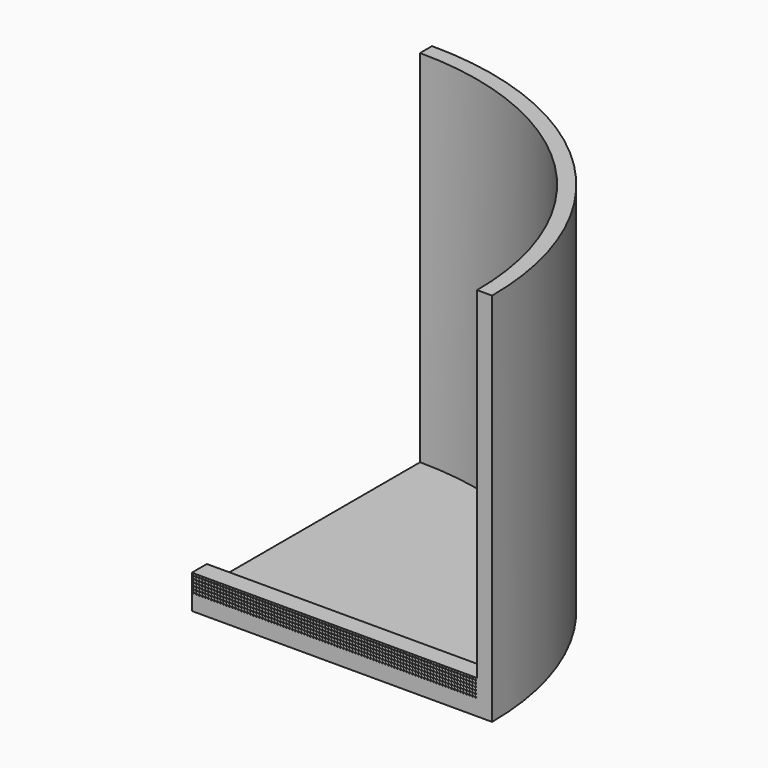
from build123d import *

# Parameters (mm, degrees)
F1_ANGLE = 90
F2_R     = 0.127
F3_DEPTH = 3.175


with BuildPart() as f1:
    # F0 (on Front) → F1 (revolve)
    with BuildSketch(Plane.XZ):
        Polygon((0, -20.305452), (0, -22.845452), (50.8, -22.845452), (50.8, 40.654548), (48.26, 40.654548), (48.26, -20.305452), align=None)
    revolve(axis=Axis((0, 0, -21.575452), (0, 0, 1)), revolution_arc=F1_ANGLE)

    # F2 (on face) → F3 (join)
    with BuildSketch(Plane.XZ):
        Polygon((0, -20.051452), (0, -20.305452), (48.26, -20.305452), (48.26, -17.130452), (0, -17.130452), align=None)
        with BuildLine():
            ThreePointArc((0.381, -20.051452), (0.254, -20.178452), (0.127, -20.051452))
            ThreePointArc((0.127, -20.051452), (0.254, -19.924452), (0.381, -20.051452))
        make_face(mode=Mode.SUBTRACT)
        with Locations((0.762, -20.051452)):
            Circle(F2_R, mode=Mode.SUBTRACT)
        with Locations((1.27, -20.051452)):
            Circle(F2_R, mode=Mode.SUBTRACT)
        with Locations((0.248868, -19.543478)):
            Circle(F2_R, mode=Mode.SUBTRACT)
        with Locations((0.756868, -19.543478)):
            Circle(F2_R, mode=Mode.SUBTRACT)
        with Locations((0.243735, -19.035504)):
            Circle(F2_R, mode=Mode.SUBTRACT)
        with Locations((0.751735, -19.035504)):
            Circle(F2_R, mode=Mode.SUBTRACT)
        with Locations((1.264868, -19.543478)):
            Circle(F2_R, mode=Mode.SUBTRACT)
        with Locations((1.259735, -19.035504)):
            Circle(F2_R, mode=Mode.SUBTRACT)
        with Locations((1.778, -20.051452)):
            Circle(F2_R, mode=Mode.SUBTRACT)
        with Locations((2.286, -20.051452)):
            Circle(F2_R, mode=Mode.SUBTRACT)
        with Locations((2.794, -20.051452)):
            Circle(F2_R, mode=Mode.SUBTRACT)
        with Locations((1.772868, -19.543478)):
            Circle(F2_R, mode=Mode.SUBTRACT)
        with Locations((2.280868, -19.543478)):
            Circle(F2_R, mode=Mode.SUBTRACT)
        with Locations((1.767735, -19.035504)):
            Circle(F2_R, mode=Mode.SUBTRACT)
        with Locations((2.275735, -19.035504)):
            Circle(F2_R, mode=Mode.SUBTRACT)
        with Locations((2.788868, -19.543478)):
            Circle(F2_R, mode=Mode.SUBTRACT)
        with Locations((2.783735, -19.035504)):
            Circle(F2_R, mode=Mode.SUBTRACT)
        with Locations((3.302, -20.051452)):
            Circle(F2_R, mode=Mode.SUBTRACT)
        with Locations((3.81, -20.051452)):
            Circle(F2_R, mode=Mode.SUBTRACT)
        with Locations((4.318, -20.051452)):
            Circle(F2_R, mode=Mode.SUBTRACT)
        with Locations((3.296868, -19.543478)):
            Circle(F2_R, mode=Mode.SUBTRACT)
        with Locations((3.804868, -19.543478)):
            Circle(F2_R, mode=Mode.SUBTRACT)
        with Locations((3.291735, -19.035504)):
            Circle(F2_R, mode=Mode.SUBTRACT)
        with Locations((3.799735, -19.035504)):
            Circle(F2_R, mode=Mode.SUBTRACT)
        with Locations((4.312868, -19.543478)):
            Circle(F2_R, mode=Mode.SUBTRACT)
        with Locations((4.307735, -19.035504)):
            Circle(F2_R, mode=Mode.SUBTRACT)
        with Locations((4.826, -20.051452)):
            Circle(F2_R, mode=Mode.SUBTRACT)
        with Locations((5.334, -20.051452)):
            Circle(F2_R, mode=Mode.SUBTRACT)
        with Locations((5.842, -20.051452)):
            Circle(F2_R, mode=Mode.SUBTRACT)
        with Locations((4.820868, -19.543478)):
            Circle(F2_R, mode=Mode.SUBTRACT)
        with Locations((5.328868, -19.543478)):
            Circle(F2_R, mode=Mode.SUBTRACT)
        with Locations((4.815735, -19.035504)):
            Circle(F2_R, mode=Mode.SUBTRACT)
        with Locations((5.323735, -19.035504)):
            Circle(F2_R, mode=Mode.SUBTRACT)
        with Locations((5.836868, -19.543478)):
            Circle(F2_R, mode=Mode.SUBTRACT)
        with Locations((6.344868, -19.543478)):
            Circle(F2_R, mode=Mode.SUBTRACT)
        with Locations((5.831735, -19.035504)):
            Circle(F2_R, mode=Mode.SUBTRACT)
        with Locations((6.339735, -19.035504)):
            Circle(F2_R, mode=Mode.SUBTRACT)
        with Locations((0.238603, -18.52753)):
            Circle(F2_R, mode=Mode.SUBTRACT)
        with Locations((0.746603, -18.52753)):
            Circle(F2_R, mode=Mode.SUBTRACT)
        with Locations((0.23347, -18.019556)):
            Circle(F2_R, mode=Mode.SUBTRACT)
        with Locations((0.74147, -18.019556)):
            Circle(F2_R, mode=Mode.SUBTRACT)
        with Locations((1.254603, -18.52753)):
            Circle(F2_R, mode=Mode.SUBTRACT)
        with Locations((1.24947, -18.019556)):
            Circle(F2_R, mode=Mode.SUBTRACT)
        with Locations((0.228338, -17.511581)):
            Circle(F2_R, mode=Mode.SUBTRACT)
        with Locations((0.736338, -17.511581)):
            Circle(F2_R, mode=Mode.SUBTRACT)
        with Locations((1.244338, -17.511581)):
            Circle(F2_R, mode=Mode.SUBTRACT)
        with Locations((1.762603, -18.52753)):
            Circle(F2_R, mode=Mode.SUBTRACT)
        with Locations((2.270603, -18.52753)):
            Circle(F2_R, mode=Mode.SUBTRACT)
        with Locations((1.75747, -18.019556)):
            Circle(F2_R, mode=Mode.SUBTRACT)
        with Locations((2.26547, -18.019556)):
            Circle(F2_R, mode=Mode.SUBTRACT)
        with Locations((2.778603, -18.52753)):
            Circle(F2_R, mode=Mode.SUBTRACT)
        with Locations((2.77347, -18.019556)):
            Circle(F2_R, mode=Mode.SUBTRACT)
        with Locations((1.752338, -17.511581)):
            Circle(F2_R, mode=Mode.SUBTRACT)
        with Locations((2.260338, -17.511581)):
            Circle(F2_R, mode=Mode.SUBTRACT)
        with Locations((2.768338, -17.511581)):
            Circle(F2_R, mode=Mode.SUBTRACT)
        with Locations((3.286603, -18.52753)):
            Circle(F2_R, mode=Mode.SUBTRACT)
        with Locations((3.794603, -18.52753)):
            Circle(F2_R, mode=Mode.SUBTRACT)
        with Locations((3.28147, -18.019556)):
            Circle(F2_R, mode=Mode.SUBTRACT)
        with Locations((3.78947, -18.019556)):
            Circle(F2_R, mode=Mode.SUBTRACT)
        with Locations((4.302603, -18.52753)):
            Circle(F2_R, mode=Mode.SUBTRACT)
        with Locations((4.29747, -18.019556)):
            Circle(F2_R, mode=Mode.SUBTRACT)
        with Locations((3.276338, -17.511581)):
            Circle(F2_R, mode=Mode.SUBTRACT)
        with Locations((3.784338, -17.511581)):
            Circle(F2_R, mode=Mode.SUBTRACT)
        with Locations((4.292338, -17.511581)):
            Circle(F2_R, mode=Mode.SUBTRACT)
        with Locations((4.810603, -18.52753)):
            Circle(F2_R, mode=Mode.SUBTRACT)
        with Locations((5.318603, -18.52753)):
            Circle(F2_R, mode=Mode.SUBTRACT)
        with Locations((4.80547, -18.019556)):
            Circle(F2_R, mode=Mode.SUBTRACT)
        with Locations((5.31347, -18.019556)):
            Circle(F2_R, mode=Mode.SUBTRACT)
        with Locations((5.826603, -18.52753)):
            Circle(F2_R, mode=Mode.SUBTRACT)
        with Locations((6.334603, -18.52753)):
            Circle(F2_R, mode=Mode.SUBTRACT)
        with Locations((5.82147, -18.019556)):
            Circle(F2_R, mode=Mode.SUBTRACT)
        with Locations((6.32947, -18.019556)):
            Circle(F2_R, mode=Mode.SUBTRACT)
        with Locations((4.800338, -17.511581)):
            Circle(F2_R, mode=Mode.SUBTRACT)
        with Locations((5.308338, -17.511581)):
            Circle(F2_R, mode=Mode.SUBTRACT)
        with Locations((5.816338, -17.511581)):
            Circle(F2_R, mode=Mode.SUBTRACT)
        with Locations((6.324338, -17.511581)):
            Circle(F2_R, mode=Mode.SUBTRACT)
        with Locations((6.35, -20.051452)):
            Circle(F2_R, mode=Mode.SUBTRACT)
        with Locations((6.858, -20.051452)):
            Circle(F2_R, mode=Mode.SUBTRACT)
        with Locations((7.366, -20.051452)):
            Circle(F2_R, mode=Mode.SUBTRACT)
        with Locations((7.874, -20.051452)):
            Circle(F2_R, mode=Mode.SUBTRACT)
        with Locations((6.852868, -19.543478)):
            Circle(F2_R, mode=Mode.SUBTRACT)
        with Locations((6.847735, -19.035504)):
            Circle(F2_R, mode=Mode.SUBTRACT)
        with Locations((7.360868, -19.543478)):
            Circle(F2_R, mode=Mode.SUBTRACT)
        with Locations((7.868868, -19.543478)):
            Circle(F2_R, mode=Mode.SUBTRACT)
        with Locations((7.355735, -19.035504)):
            Circle(F2_R, mode=Mode.SUBTRACT)
        with Locations((7.863735, -19.035504)):
            Circle(F2_R, mode=Mode.SUBTRACT)
        with Locations((8.382, -20.051452)):
            Circle(F2_R, mode=Mode.SUBTRACT)
        with Locations((8.89, -20.051452)):
            Circle(F2_R, mode=Mode.SUBTRACT)
        with Locations((9.398, -20.051452)):
            Circle(F2_R, mode=Mode.SUBTRACT)
        with Locations((8.376868, -19.543478)):
            Circle(F2_R, mode=Mode.SUBTRACT)
        with Locations((8.371735, -19.035504)):
            Circle(F2_R, mode=Mode.SUBTRACT)
        with Locations((8.884868, -19.543478)):
            Circle(F2_R, mode=Mode.SUBTRACT)
        with Locations((9.392868, -19.543478)):
            Circle(F2_R, mode=Mode.SUBTRACT)
        with Locations((8.879735, -19.035504)):
            Circle(F2_R, mode=Mode.SUBTRACT)
        with Locations((9.387735, -19.035504)):
            Circle(F2_R, mode=Mode.SUBTRACT)
        with Locations((9.906, -20.051452)):
            Circle(F2_R, mode=Mode.SUBTRACT)
        with Locations((10.414, -20.051452)):
            Circle(F2_R, mode=Mode.SUBTRACT)
        with Locations((10.922, -20.051452)):
            Circle(F2_R, mode=Mode.SUBTRACT)
        with Locations((9.900868, -19.543478)):
            Circle(F2_R, mode=Mode.SUBTRACT)
        with Locations((9.895735, -19.035504)):
            Circle(F2_R, mode=Mode.SUBTRACT)
        with Locations((10.408868, -19.543478)):
            Circle(F2_R, mode=Mode.SUBTRACT)
        with Locations((10.916868, -19.543478)):
            Circle(F2_R, mode=Mode.SUBTRACT)
        with Locations((10.403735, -19.035504)):
            Circle(F2_R, mode=Mode.SUBTRACT)
        with Locations((10.911735, -19.035504)):
            Circle(F2_R, mode=Mode.SUBTRACT)
        with Locations((11.43, -20.051452)):
            Circle(F2_R, mode=Mode.SUBTRACT)
        with Locations((11.938, -20.051452)):
            Circle(F2_R, mode=Mode.SUBTRACT)
        with Locations((12.446, -20.051452)):
            Circle(F2_R, mode=Mode.SUBTRACT)
        with Locations((11.424868, -19.543478)):
            Circle(F2_R, mode=Mode.SUBTRACT)
        with Locations((11.419735, -19.035504)):
            Circle(F2_R, mode=Mode.SUBTRACT)
        with Locations((11.932868, -19.543478)):
            Circle(F2_R, mode=Mode.SUBTRACT)
        with Locations((12.440868, -19.543478)):
            Circle(F2_R, mode=Mode.SUBTRACT)
        with Locations((11.927735, -19.035504)):
            Circle(F2_R, mode=Mode.SUBTRACT)
        with Locations((12.435735, -19.035504)):
            Circle(F2_R, mode=Mode.SUBTRACT)
        with Locations((6.842603, -18.52753)):
            Circle(F2_R, mode=Mode.SUBTRACT)
        with Locations((6.83747, -18.019556)):
            Circle(F2_R, mode=Mode.SUBTRACT)
        with Locations((7.350603, -18.52753)):
            Circle(F2_R, mode=Mode.SUBTRACT)
        with Locations((7.858603, -18.52753)):
            Circle(F2_R, mode=Mode.SUBTRACT)
        with Locations((7.34547, -18.019556)):
            Circle(F2_R, mode=Mode.SUBTRACT)
        with Locations((7.85347, -18.019556)):
            Circle(F2_R, mode=Mode.SUBTRACT)
        with Locations((6.832338, -17.511581)):
            Circle(F2_R, mode=Mode.SUBTRACT)
        with Locations((7.340338, -17.511581)):
            Circle(F2_R, mode=Mode.SUBTRACT)
        with Locations((7.848338, -17.511581)):
            Circle(F2_R, mode=Mode.SUBTRACT)
        with Locations((8.366603, -18.52753)):
            Circle(F2_R, mode=Mode.SUBTRACT)
        with Locations((8.36147, -18.019556)):
            Circle(F2_R, mode=Mode.SUBTRACT)
        with Locations((8.874603, -18.52753)):
            Circle(F2_R, mode=Mode.SUBTRACT)
        with Locations((9.382603, -18.52753)):
            Circle(F2_R, mode=Mode.SUBTRACT)
        with Locations((8.86947, -18.019556)):
            Circle(F2_R, mode=Mode.SUBTRACT)
        with Locations((9.37747, -18.019556)):
            Circle(F2_R, mode=Mode.SUBTRACT)
        with Locations((8.356338, -17.511581)):
            Circle(F2_R, mode=Mode.SUBTRACT)
        with Locations((8.864338, -17.511581)):
            Circle(F2_R, mode=Mode.SUBTRACT)
        with Locations((9.372338, -17.511581)):
            Circle(F2_R, mode=Mode.SUBTRACT)
        with Locations((9.890603, -18.52753)):
            Circle(F2_R, mode=Mode.SUBTRACT)
        with Locations((9.88547, -18.019556)):
            Circle(F2_R, mode=Mode.SUBTRACT)
        with Locations((10.398603, -18.52753)):
            Circle(F2_R, mode=Mode.SUBTRACT)
        with Locations((10.906603, -18.52753)):
            Circle(F2_R, mode=Mode.SUBTRACT)
        with Locations((10.39347, -18.019556)):
            Circle(F2_R, mode=Mode.SUBTRACT)
        with Locations((10.90147, -18.019556)):
            Circle(F2_R, mode=Mode.SUBTRACT)
        with Locations((9.880338, -17.511581)):
            Circle(F2_R, mode=Mode.SUBTRACT)
        with Locations((10.388338, -17.511581)):
            Circle(F2_R, mode=Mode.SUBTRACT)
        with Locations((10.896338, -17.511581)):
            Circle(F2_R, mode=Mode.SUBTRACT)
        with Locations((11.414603, -18.52753)):
            Circle(F2_R, mode=Mode.SUBTRACT)
        with Locations((11.40947, -18.019556)):
            Circle(F2_R, mode=Mode.SUBTRACT)
        with Locations((11.922603, -18.52753)):
            Circle(F2_R, mode=Mode.SUBTRACT)
        with Locations((12.430603, -18.52753)):
            Circle(F2_R, mode=Mode.SUBTRACT)
        with Locations((11.91747, -18.019556)):
            Circle(F2_R, mode=Mode.SUBTRACT)
        with Locations((12.42547, -18.019556)):
            Circle(F2_R, mode=Mode.SUBTRACT)
        with Locations((11.404338, -17.511581)):
            Circle(F2_R, mode=Mode.SUBTRACT)
        with Locations((11.912338, -17.511581)):
            Circle(F2_R, mode=Mode.SUBTRACT)
        with Locations((12.420338, -17.511581)):
            Circle(F2_R, mode=Mode.SUBTRACT)
        with Locations((12.954, -20.051452)):
            Circle(F2_R, mode=Mode.SUBTRACT)
        with Locations((13.462, -20.051452)):
            Circle(F2_R, mode=Mode.SUBTRACT)
        with Locations((13.97, -20.051452)):
            Circle(F2_R, mode=Mode.SUBTRACT)
        with Locations((12.948868, -19.543478)):
            Circle(F2_R, mode=Mode.SUBTRACT)
        with Locations((13.456868, -19.543478)):
            Circle(F2_R, mode=Mode.SUBTRACT)
        with Locations((12.943735, -19.035504)):
            Circle(F2_R, mode=Mode.SUBTRACT)
        with Locations((13.451735, -19.035504)):
            Circle(F2_R, mode=Mode.SUBTRACT)
        with Locations((13.964868, -19.543478)):
            Circle(F2_R, mode=Mode.SUBTRACT)
        with Locations((13.959735, -19.035504)):
            Circle(F2_R, mode=Mode.SUBTRACT)
        with Locations((14.478, -20.051452)):
            Circle(F2_R, mode=Mode.SUBTRACT)
        with Locations((14.986, -20.051452)):
            Circle(F2_R, mode=Mode.SUBTRACT)
        with Locations((15.494, -20.051452)):
            Circle(F2_R, mode=Mode.SUBTRACT)
        with Locations((14.472868, -19.543478)):
            Circle(F2_R, mode=Mode.SUBTRACT)
        with Locations((14.980868, -19.543478)):
            Circle(F2_R, mode=Mode.SUBTRACT)
        with Locations((14.467735, -19.035504)):
            Circle(F2_R, mode=Mode.SUBTRACT)
        with Locations((14.975735, -19.035504)):
            Circle(F2_R, mode=Mode.SUBTRACT)
        with Locations((15.488868, -19.543478)):
            Circle(F2_R, mode=Mode.SUBTRACT)
        with Locations((15.483735, -19.035504)):
            Circle(F2_R, mode=Mode.SUBTRACT)
        with Locations((16.002, -20.051452)):
            Circle(F2_R, mode=Mode.SUBTRACT)
        with Locations((16.51, -20.051452)):
            Circle(F2_R, mode=Mode.SUBTRACT)
        with Locations((17.018, -20.051452)):
            Circle(F2_R, mode=Mode.SUBTRACT)
        with Locations((15.996868, -19.543478)):
            Circle(F2_R, mode=Mode.SUBTRACT)
        with Locations((16.504868, -19.543478)):
            Circle(F2_R, mode=Mode.SUBTRACT)
        with Locations((15.991735, -19.035504)):
            Circle(F2_R, mode=Mode.SUBTRACT)
        with Locations((16.499735, -19.035504)):
            Circle(F2_R, mode=Mode.SUBTRACT)
        with Locations((17.012868, -19.543478)):
            Circle(F2_R, mode=Mode.SUBTRACT)
        with Locations((17.007735, -19.035504)):
            Circle(F2_R, mode=Mode.SUBTRACT)
        with Locations((17.526, -20.051452)):
            Circle(F2_R, mode=Mode.SUBTRACT)
        with Locations((18.034, -20.051452)):
            Circle(F2_R, mode=Mode.SUBTRACT)
        with Locations((18.542, -20.051452)):
            Circle(F2_R, mode=Mode.SUBTRACT)
        with Locations((17.520868, -19.543478)):
            Circle(F2_R, mode=Mode.SUBTRACT)
        with Locations((18.028868, -19.543478)):
            Circle(F2_R, mode=Mode.SUBTRACT)
        with Locations((17.515735, -19.035504)):
            Circle(F2_R, mode=Mode.SUBTRACT)
        with Locations((18.023735, -19.035504)):
            Circle(F2_R, mode=Mode.SUBTRACT)
        with Locations((18.536868, -19.543478)):
            Circle(F2_R, mode=Mode.SUBTRACT)
        with Locations((19.044868, -19.543478)):
            Circle(F2_R, mode=Mode.SUBTRACT)
        with Locations((18.531735, -19.035504)):
            Circle(F2_R, mode=Mode.SUBTRACT)
        with Locations((19.039735, -19.035504)):
            Circle(F2_R, mode=Mode.SUBTRACT)
        with Locations((12.938603, -18.52753)):
            Circle(F2_R, mode=Mode.SUBTRACT)
        with Locations((13.446603, -18.52753)):
            Circle(F2_R, mode=Mode.SUBTRACT)
        with Locations((12.93347, -18.019556)):
            Circle(F2_R, mode=Mode.SUBTRACT)
        with Locations((13.44147, -18.019556)):
            Circle(F2_R, mode=Mode.SUBTRACT)
        with Locations((13.954603, -18.52753)):
            Circle(F2_R, mode=Mode.SUBTRACT)
        with Locations((13.94947, -18.019556)):
            Circle(F2_R, mode=Mode.SUBTRACT)
        with Locations((12.928338, -17.511581)):
            Circle(F2_R, mode=Mode.SUBTRACT)
        with Locations((13.436338, -17.511581)):
            Circle(F2_R, mode=Mode.SUBTRACT)
        with Locations((13.944338, -17.511581)):
            Circle(F2_R, mode=Mode.SUBTRACT)
        with Locations((14.462603, -18.52753)):
            Circle(F2_R, mode=Mode.SUBTRACT)
        with Locations((14.970603, -18.52753)):
            Circle(F2_R, mode=Mode.SUBTRACT)
        with Locations((14.45747, -18.019556)):
            Circle(F2_R, mode=Mode.SUBTRACT)
        with Locations((14.96547, -18.019556)):
            Circle(F2_R, mode=Mode.SUBTRACT)
        with Locations((15.478603, -18.52753)):
            Circle(F2_R, mode=Mode.SUBTRACT)
        with Locations((15.47347, -18.019556)):
            Circle(F2_R, mode=Mode.SUBTRACT)
        with Locations((14.452338, -17.511581)):
            Circle(F2_R, mode=Mode.SUBTRACT)
        with Locations((14.960338, -17.511581)):
            Circle(F2_R, mode=Mode.SUBTRACT)
        with Locations((15.468338, -17.511581)):
            Circle(F2_R, mode=Mode.SUBTRACT)
        with Locations((15.986603, -18.52753)):
            Circle(F2_R, mode=Mode.SUBTRACT)
        with Locations((16.494603, -18.52753)):
            Circle(F2_R, mode=Mode.SUBTRACT)
        with Locations((15.98147, -18.019556)):
            Circle(F2_R, mode=Mode.SUBTRACT)
        with Locations((16.48947, -18.019556)):
            Circle(F2_R, mode=Mode.SUBTRACT)
        with Locations((17.002603, -18.52753)):
            Circle(F2_R, mode=Mode.SUBTRACT)
        with Locations((16.99747, -18.019556)):
            Circle(F2_R, mode=Mode.SUBTRACT)
        with Locations((15.976338, -17.511581)):
            Circle(F2_R, mode=Mode.SUBTRACT)
        with Locations((16.484338, -17.511581)):
            Circle(F2_R, mode=Mode.SUBTRACT)
        with Locations((16.992338, -17.511581)):
            Circle(F2_R, mode=Mode.SUBTRACT)
        with Locations((17.510603, -18.52753)):
            Circle(F2_R, mode=Mode.SUBTRACT)
        with Locations((18.018603, -18.52753)):
            Circle(F2_R, mode=Mode.SUBTRACT)
        with Locations((17.50547, -18.019556)):
            Circle(F2_R, mode=Mode.SUBTRACT)
        with Locations((18.01347, -18.019556)):
            Circle(F2_R, mode=Mode.SUBTRACT)
        with Locations((18.526603, -18.52753)):
            Circle(F2_R, mode=Mode.SUBTRACT)
        with Locations((19.034603, -18.52753)):
            Circle(F2_R, mode=Mode.SUBTRACT)
        with Locations((18.52147, -18.019556)):
            Circle(F2_R, mode=Mode.SUBTRACT)
        with Locations((19.02947, -18.019556)):
            Circle(F2_R, mode=Mode.SUBTRACT)
        with Locations((17.500338, -17.511581)):
            Circle(F2_R, mode=Mode.SUBTRACT)
        with Locations((18.008338, -17.511581)):
            Circle(F2_R, mode=Mode.SUBTRACT)
        with Locations((18.516338, -17.511581)):
            Circle(F2_R, mode=Mode.SUBTRACT)
        with Locations((19.024338, -17.511581)):
            Circle(F2_R, mode=Mode.SUBTRACT)
        with Locations((19.05, -20.051452)):
            Circle(F2_R, mode=Mode.SUBTRACT)
        with Locations((19.558, -20.051452)):
            Circle(F2_R, mode=Mode.SUBTRACT)
        with Locations((20.066, -20.051452)):
            Circle(F2_R, mode=Mode.SUBTRACT)
        with Locations((20.574, -20.051452)):
            Circle(F2_R, mode=Mode.SUBTRACT)
        with Locations((19.552868, -19.543478)):
            Circle(F2_R, mode=Mode.SUBTRACT)
        with Locations((19.547735, -19.035504)):
            Circle(F2_R, mode=Mode.SUBTRACT)
        with Locations((20.060868, -19.543478)):
            Circle(F2_R, mode=Mode.SUBTRACT)
        with Locations((20.568868, -19.543478)):
            Circle(F2_R, mode=Mode.SUBTRACT)
        with Locations((20.055735, -19.035504)):
            Circle(F2_R, mode=Mode.SUBTRACT)
        with Locations((20.563735, -19.035504)):
            Circle(F2_R, mode=Mode.SUBTRACT)
        with Locations((21.082, -20.051452)):
            Circle(F2_R, mode=Mode.SUBTRACT)
        with Locations((21.59, -20.051452)):
            Circle(F2_R, mode=Mode.SUBTRACT)
        with Locations((22.098, -20.051452)):
            Circle(F2_R, mode=Mode.SUBTRACT)
        with Locations((21.076868, -19.543478)):
            Circle(F2_R, mode=Mode.SUBTRACT)
        with Locations((21.071735, -19.035504)):
            Circle(F2_R, mode=Mode.SUBTRACT)
        with Locations((21.584868, -19.543478)):
            Circle(F2_R, mode=Mode.SUBTRACT)
        with Locations((22.092868, -19.543478)):
            Circle(F2_R, mode=Mode.SUBTRACT)
        with Locations((21.579735, -19.035504)):
            Circle(F2_R, mode=Mode.SUBTRACT)
        with Locations((22.087735, -19.035504)):
            Circle(F2_R, mode=Mode.SUBTRACT)
        with Locations((22.606, -20.051452)):
            Circle(F2_R, mode=Mode.SUBTRACT)
        with Locations((23.114, -20.051452)):
            Circle(F2_R, mode=Mode.SUBTRACT)
        with Locations((23.622, -20.051452)):
            Circle(F2_R, mode=Mode.SUBTRACT)
        with Locations((22.600868, -19.543478)):
            Circle(F2_R, mode=Mode.SUBTRACT)
        with Locations((22.595735, -19.035504)):
            Circle(F2_R, mode=Mode.SUBTRACT)
        with Locations((23.108868, -19.543478)):
            Circle(F2_R, mode=Mode.SUBTRACT)
        with Locations((23.616868, -19.543478)):
            Circle(F2_R, mode=Mode.SUBTRACT)
        with Locations((23.103735, -19.035504)):
            Circle(F2_R, mode=Mode.SUBTRACT)
        with Locations((23.611735, -19.035504)):
            Circle(F2_R, mode=Mode.SUBTRACT)
        with Locations((24.13, -20.051452)):
            Circle(F2_R, mode=Mode.SUBTRACT)
        with Locations((24.638, -20.051452)):
            Circle(F2_R, mode=Mode.SUBTRACT)
        with Locations((25.146, -20.051452)):
            Circle(F2_R, mode=Mode.SUBTRACT)
        with Locations((24.124868, -19.543478)):
            Circle(F2_R, mode=Mode.SUBTRACT)
        with Locations((24.119735, -19.035504)):
            Circle(F2_R, mode=Mode.SUBTRACT)
        with Locations((24.632868, -19.543478)):
            Circle(F2_R, mode=Mode.SUBTRACT)
        with Locations((25.140868, -19.543478)):
            Circle(F2_R, mode=Mode.SUBTRACT)
        with Locations((24.627735, -19.035504)):
            Circle(F2_R, mode=Mode.SUBTRACT)
        with Locations((25.135735, -19.035504)):
            Circle(F2_R, mode=Mode.SUBTRACT)
        with Locations((19.542603, -18.52753)):
            Circle(F2_R, mode=Mode.SUBTRACT)
        with Locations((19.53747, -18.019556)):
            Circle(F2_R, mode=Mode.SUBTRACT)
        with Locations((20.050603, -18.52753)):
            Circle(F2_R, mode=Mode.SUBTRACT)
        with Locations((20.558603, -18.52753)):
            Circle(F2_R, mode=Mode.SUBTRACT)
        with Locations((20.04547, -18.019556)):
            Circle(F2_R, mode=Mode.SUBTRACT)
        with Locations((20.55347, -18.019556)):
            Circle(F2_R, mode=Mode.SUBTRACT)
        with Locations((19.532338, -17.511581)):
            Circle(F2_R, mode=Mode.SUBTRACT)
        with Locations((20.040338, -17.511581)):
            Circle(F2_R, mode=Mode.SUBTRACT)
        with Locations((20.548338, -17.511581)):
            Circle(F2_R, mode=Mode.SUBTRACT)
        with Locations((21.066603, -18.52753)):
            Circle(F2_R, mode=Mode.SUBTRACT)
        with Locations((21.06147, -18.019556)):
            Circle(F2_R, mode=Mode.SUBTRACT)
        with Locations((21.574603, -18.52753)):
            Circle(F2_R, mode=Mode.SUBTRACT)
        with Locations((22.082603, -18.52753)):
            Circle(F2_R, mode=Mode.SUBTRACT)
        with Locations((21.56947, -18.019556)):
            Circle(F2_R, mode=Mode.SUBTRACT)
        with Locations((22.07747, -18.019556)):
            Circle(F2_R, mode=Mode.SUBTRACT)
        with Locations((21.056338, -17.511581)):
            Circle(F2_R, mode=Mode.SUBTRACT)
        with Locations((21.564338, -17.511581)):
            Circle(F2_R, mode=Mode.SUBTRACT)
        with Locations((22.072338, -17.511581)):
            Circle(F2_R, mode=Mode.SUBTRACT)
        with Locations((22.590603, -18.52753)):
            Circle(F2_R, mode=Mode.SUBTRACT)
        with Locations((22.58547, -18.019556)):
            Circle(F2_R, mode=Mode.SUBTRACT)
        with Locations((23.098603, -18.52753)):
            Circle(F2_R, mode=Mode.SUBTRACT)
        with Locations((23.606603, -18.52753)):
            Circle(F2_R, mode=Mode.SUBTRACT)
        with Locations((23.09347, -18.019556)):
            Circle(F2_R, mode=Mode.SUBTRACT)
        with Locations((23.60147, -18.019556)):
            Circle(F2_R, mode=Mode.SUBTRACT)
        with Locations((22.580338, -17.511581)):
            Circle(F2_R, mode=Mode.SUBTRACT)
        with Locations((23.088338, -17.511581)):
            Circle(F2_R, mode=Mode.SUBTRACT)
        with Locations((23.596338, -17.511581)):
            Circle(F2_R, mode=Mode.SUBTRACT)
        with Locations((24.114603, -18.52753)):
            Circle(F2_R, mode=Mode.SUBTRACT)
        with Locations((24.10947, -18.019556)):
            Circle(F2_R, mode=Mode.SUBTRACT)
        with Locations((24.622603, -18.52753)):
            Circle(F2_R, mode=Mode.SUBTRACT)
        with Locations((25.130603, -18.52753)):
            Circle(F2_R, mode=Mode.SUBTRACT)
        with Locations((24.61747, -18.019556)):
            Circle(F2_R, mode=Mode.SUBTRACT)
        with Locations((25.12547, -18.019556)):
            Circle(F2_R, mode=Mode.SUBTRACT)
        with Locations((24.104338, -17.511581)):
            Circle(F2_R, mode=Mode.SUBTRACT)
        with Locations((24.612338, -17.511581)):
            Circle(F2_R, mode=Mode.SUBTRACT)
        with Locations((25.120338, -17.511581)):
            Circle(F2_R, mode=Mode.SUBTRACT)
        with Locations((25.654, -20.051452)):
            Circle(F2_R, mode=Mode.SUBTRACT)
        with Locations((26.162, -20.051452)):
            Circle(F2_R, mode=Mode.SUBTRACT)
        with Locations((26.67, -20.051452)):
            Circle(F2_R, mode=Mode.SUBTRACT)
        with Locations((25.648868, -19.543478)):
            Circle(F2_R, mode=Mode.SUBTRACT)
        with Locations((26.156868, -19.543478)):
            Circle(F2_R, mode=Mode.SUBTRACT)
        with Locations((25.643735, -19.035504)):
            Circle(F2_R, mode=Mode.SUBTRACT)
        with Locations((26.151735, -19.035504)):
            Circle(F2_R, mode=Mode.SUBTRACT)
        with Locations((26.664868, -19.543478)):
            Circle(F2_R, mode=Mode.SUBTRACT)
        with Locations((26.659735, -19.035504)):
            Circle(F2_R, mode=Mode.SUBTRACT)
        with Locations((27.178, -20.051452)):
            Circle(F2_R, mode=Mode.SUBTRACT)
        with Locations((27.686, -20.051452)):
            Circle(F2_R, mode=Mode.SUBTRACT)
        with Locations((28.194, -20.051452)):
            Circle(F2_R, mode=Mode.SUBTRACT)
        with Locations((27.172868, -19.543478)):
            Circle(F2_R, mode=Mode.SUBTRACT)
        with Locations((27.680868, -19.543478)):
            Circle(F2_R, mode=Mode.SUBTRACT)
        with Locations((27.167735, -19.035504)):
            Circle(F2_R, mode=Mode.SUBTRACT)
        with Locations((27.675735, -19.035504)):
            Circle(F2_R, mode=Mode.SUBTRACT)
        with Locations((28.188868, -19.543478)):
            Circle(F2_R, mode=Mode.SUBTRACT)
        with Locations((28.183735, -19.035504)):
            Circle(F2_R, mode=Mode.SUBTRACT)
        with Locations((28.702, -20.051452)):
            Circle(F2_R, mode=Mode.SUBTRACT)
        with Locations((29.21, -20.051452)):
            Circle(F2_R, mode=Mode.SUBTRACT)
        with Locations((29.718, -20.051452)):
            Circle(F2_R, mode=Mode.SUBTRACT)
        with Locations((28.696868, -19.543478)):
            Circle(F2_R, mode=Mode.SUBTRACT)
        with Locations((29.204868, -19.543478)):
            Circle(F2_R, mode=Mode.SUBTRACT)
        with Locations((28.691735, -19.035504)):
            Circle(F2_R, mode=Mode.SUBTRACT)
        with Locations((29.199735, -19.035504)):
            Circle(F2_R, mode=Mode.SUBTRACT)
        with Locations((29.712868, -19.543478)):
            Circle(F2_R, mode=Mode.SUBTRACT)
        with Locations((29.707735, -19.035504)):
            Circle(F2_R, mode=Mode.SUBTRACT)
        with Locations((30.226, -20.051452)):
            Circle(F2_R, mode=Mode.SUBTRACT)
        with Locations((30.734, -20.051452)):
            Circle(F2_R, mode=Mode.SUBTRACT)
        with Locations((31.242, -20.051452)):
            Circle(F2_R, mode=Mode.SUBTRACT)
        with Locations((30.220868, -19.543478)):
            Circle(F2_R, mode=Mode.SUBTRACT)
        with Locations((30.728868, -19.543478)):
            Circle(F2_R, mode=Mode.SUBTRACT)
        with Locations((30.215735, -19.035504)):
            Circle(F2_R, mode=Mode.SUBTRACT)
        with Locations((30.723735, -19.035504)):
            Circle(F2_R, mode=Mode.SUBTRACT)
        with Locations((31.236868, -19.543478)):
            Circle(F2_R, mode=Mode.SUBTRACT)
        with Locations((31.744868, -19.543478)):
            Circle(F2_R, mode=Mode.SUBTRACT)
        with Locations((31.231735, -19.035504)):
            Circle(F2_R, mode=Mode.SUBTRACT)
        with Locations((31.739735, -19.035504)):
            Circle(F2_R, mode=Mode.SUBTRACT)
        with Locations((25.638603, -18.52753)):
            Circle(F2_R, mode=Mode.SUBTRACT)
        with Locations((26.146603, -18.52753)):
            Circle(F2_R, mode=Mode.SUBTRACT)
        with Locations((25.63347, -18.019556)):
            Circle(F2_R, mode=Mode.SUBTRACT)
        with Locations((26.14147, -18.019556)):
            Circle(F2_R, mode=Mode.SUBTRACT)
        with Locations((26.654603, -18.52753)):
            Circle(F2_R, mode=Mode.SUBTRACT)
        with Locations((26.64947, -18.019556)):
            Circle(F2_R, mode=Mode.SUBTRACT)
        with Locations((25.628338, -17.511581)):
            Circle(F2_R, mode=Mode.SUBTRACT)
        with Locations((26.136338, -17.511581)):
            Circle(F2_R, mode=Mode.SUBTRACT)
        with Locations((26.644338, -17.511581)):
            Circle(F2_R, mode=Mode.SUBTRACT)
        with Locations((27.162603, -18.52753)):
            Circle(F2_R, mode=Mode.SUBTRACT)
        with Locations((27.670603, -18.52753)):
            Circle(F2_R, mode=Mode.SUBTRACT)
        with Locations((27.15747, -18.019556)):
            Circle(F2_R, mode=Mode.SUBTRACT)
        with Locations((27.66547, -18.019556)):
            Circle(F2_R, mode=Mode.SUBTRACT)
        with Locations((28.178603, -18.52753)):
            Circle(F2_R, mode=Mode.SUBTRACT)
        with Locations((28.17347, -18.019556)):
            Circle(F2_R, mode=Mode.SUBTRACT)
        with Locations((27.152338, -17.511581)):
            Circle(F2_R, mode=Mode.SUBTRACT)
        with Locations((27.660338, -17.511581)):
            Circle(F2_R, mode=Mode.SUBTRACT)
        with Locations((28.168338, -17.511581)):
            Circle(F2_R, mode=Mode.SUBTRACT)
        with Locations((28.686603, -18.52753)):
            Circle(F2_R, mode=Mode.SUBTRACT)
        with Locations((29.194603, -18.52753)):
            Circle(F2_R, mode=Mode.SUBTRACT)
        with Locations((28.68147, -18.019556)):
            Circle(F2_R, mode=Mode.SUBTRACT)
        with Locations((29.18947, -18.019556)):
            Circle(F2_R, mode=Mode.SUBTRACT)
        with Locations((29.702603, -18.52753)):
            Circle(F2_R, mode=Mode.SUBTRACT)
        with Locations((29.69747, -18.019556)):
            Circle(F2_R, mode=Mode.SUBTRACT)
        with Locations((28.676338, -17.511581)):
            Circle(F2_R, mode=Mode.SUBTRACT)
        with Locations((29.184338, -17.511581)):
            Circle(F2_R, mode=Mode.SUBTRACT)
        with Locations((29.692338, -17.511581)):
            Circle(F2_R, mode=Mode.SUBTRACT)
        with Locations((30.210603, -18.52753)):
            Circle(F2_R, mode=Mode.SUBTRACT)
        with Locations((30.718603, -18.52753)):
            Circle(F2_R, mode=Mode.SUBTRACT)
        with Locations((30.20547, -18.019556)):
            Circle(F2_R, mode=Mode.SUBTRACT)
        with Locations((30.71347, -18.019556)):
            Circle(F2_R, mode=Mode.SUBTRACT)
        with Locations((31.226603, -18.52753)):
            Circle(F2_R, mode=Mode.SUBTRACT)
        with Locations((31.734603, -18.52753)):
            Circle(F2_R, mode=Mode.SUBTRACT)
        with Locations((31.22147, -18.019556)):
            Circle(F2_R, mode=Mode.SUBTRACT)
        with Locations((31.72947, -18.019556)):
            Circle(F2_R, mode=Mode.SUBTRACT)
        with Locations((30.200338, -17.511581)):
            Circle(F2_R, mode=Mode.SUBTRACT)
        with Locations((30.708338, -17.511581)):
            Circle(F2_R, mode=Mode.SUBTRACT)
        with Locations((31.216338, -17.511581)):
            Circle(F2_R, mode=Mode.SUBTRACT)
        with Locations((31.724338, -17.511581)):
            Circle(F2_R, mode=Mode.SUBTRACT)
        with Locations((31.75, -20.051452)):
            Circle(F2_R, mode=Mode.SUBTRACT)
        with Locations((32.258, -20.051452)):
            Circle(F2_R, mode=Mode.SUBTRACT)
        with Locations((32.766, -20.051452)):
            Circle(F2_R, mode=Mode.SUBTRACT)
        with Locations((33.274, -20.051452)):
            Circle(F2_R, mode=Mode.SUBTRACT)
        with Locations((32.252868, -19.543478)):
            Circle(F2_R, mode=Mode.SUBTRACT)
        with Locations((32.247735, -19.035504)):
            Circle(F2_R, mode=Mode.SUBTRACT)
        with Locations((32.760868, -19.543478)):
            Circle(F2_R, mode=Mode.SUBTRACT)
        with Locations((33.268868, -19.543478)):
            Circle(F2_R, mode=Mode.SUBTRACT)
        with Locations((32.755735, -19.035504)):
            Circle(F2_R, mode=Mode.SUBTRACT)
        with Locations((33.263735, -19.035504)):
            Circle(F2_R, mode=Mode.SUBTRACT)
        with Locations((33.782, -20.051452)):
            Circle(F2_R, mode=Mode.SUBTRACT)
        with Locations((34.29, -20.051452)):
            Circle(F2_R, mode=Mode.SUBTRACT)
        with Locations((34.798, -20.051452)):
            Circle(F2_R, mode=Mode.SUBTRACT)
        with Locations((33.776868, -19.543478)):
            Circle(F2_R, mode=Mode.SUBTRACT)
        with Locations((33.771735, -19.035504)):
            Circle(F2_R, mode=Mode.SUBTRACT)
        with Locations((34.284868, -19.543478)):
            Circle(F2_R, mode=Mode.SUBTRACT)
        with Locations((34.792868, -19.543478)):
            Circle(F2_R, mode=Mode.SUBTRACT)
        with Locations((34.279735, -19.035504)):
            Circle(F2_R, mode=Mode.SUBTRACT)
        with Locations((34.787735, -19.035504)):
            Circle(F2_R, mode=Mode.SUBTRACT)
        with Locations((35.306, -20.051452)):
            Circle(F2_R, mode=Mode.SUBTRACT)
        with Locations((35.814, -20.051452)):
            Circle(F2_R, mode=Mode.SUBTRACT)
        with Locations((36.322, -20.051452)):
            Circle(F2_R, mode=Mode.SUBTRACT)
        with Locations((35.300868, -19.543478)):
            Circle(F2_R, mode=Mode.SUBTRACT)
        with Locations((35.295735, -19.035504)):
            Circle(F2_R, mode=Mode.SUBTRACT)
        with Locations((35.808868, -19.543478)):
            Circle(F2_R, mode=Mode.SUBTRACT)
        with Locations((36.316868, -19.543478)):
            Circle(F2_R, mode=Mode.SUBTRACT)
        with Locations((35.803735, -19.035504)):
            Circle(F2_R, mode=Mode.SUBTRACT)
        with Locations((36.311735, -19.035504)):
            Circle(F2_R, mode=Mode.SUBTRACT)
        with Locations((36.83, -20.051452)):
            Circle(F2_R, mode=Mode.SUBTRACT)
        with Locations((37.338, -20.051452)):
            Circle(F2_R, mode=Mode.SUBTRACT)
        with Locations((37.846, -20.051452)):
            Circle(F2_R, mode=Mode.SUBTRACT)
        with Locations((36.824868, -19.543478)):
            Circle(F2_R, mode=Mode.SUBTRACT)
        with Locations((36.819735, -19.035504)):
            Circle(F2_R, mode=Mode.SUBTRACT)
        with Locations((37.332868, -19.543478)):
            Circle(F2_R, mode=Mode.SUBTRACT)
        with Locations((37.840868, -19.543478)):
            Circle(F2_R, mode=Mode.SUBTRACT)
        with Locations((37.327735, -19.035504)):
            Circle(F2_R, mode=Mode.SUBTRACT)
        with Locations((37.835735, -19.035504)):
            Circle(F2_R, mode=Mode.SUBTRACT)
        with Locations((32.242603, -18.52753)):
            Circle(F2_R, mode=Mode.SUBTRACT)
        with Locations((32.23747, -18.019556)):
            Circle(F2_R, mode=Mode.SUBTRACT)
        with Locations((32.750603, -18.52753)):
            Circle(F2_R, mode=Mode.SUBTRACT)
        with Locations((33.258603, -18.52753)):
            Circle(F2_R, mode=Mode.SUBTRACT)
        with Locations((32.74547, -18.019556)):
            Circle(F2_R, mode=Mode.SUBTRACT)
        with Locations((33.25347, -18.019556)):
            Circle(F2_R, mode=Mode.SUBTRACT)
        with Locations((32.232338, -17.511581)):
            Circle(F2_R, mode=Mode.SUBTRACT)
        with Locations((32.740338, -17.511581)):
            Circle(F2_R, mode=Mode.SUBTRACT)
        with Locations((33.248338, -17.511581)):
            Circle(F2_R, mode=Mode.SUBTRACT)
        with Locations((33.766603, -18.52753)):
            Circle(F2_R, mode=Mode.SUBTRACT)
        with Locations((33.76147, -18.019556)):
            Circle(F2_R, mode=Mode.SUBTRACT)
        with Locations((34.274603, -18.52753)):
            Circle(F2_R, mode=Mode.SUBTRACT)
        with Locations((34.782603, -18.52753)):
            Circle(F2_R, mode=Mode.SUBTRACT)
        with Locations((34.26947, -18.019556)):
            Circle(F2_R, mode=Mode.SUBTRACT)
        with Locations((34.77747, -18.019556)):
            Circle(F2_R, mode=Mode.SUBTRACT)
        with Locations((33.756338, -17.511581)):
            Circle(F2_R, mode=Mode.SUBTRACT)
        with Locations((34.264338, -17.511581)):
            Circle(F2_R, mode=Mode.SUBTRACT)
        with Locations((34.772338, -17.511581)):
            Circle(F2_R, mode=Mode.SUBTRACT)
        with Locations((35.290603, -18.52753)):
            Circle(F2_R, mode=Mode.SUBTRACT)
        with Locations((35.28547, -18.019556)):
            Circle(F2_R, mode=Mode.SUBTRACT)
        with Locations((35.798603, -18.52753)):
            Circle(F2_R, mode=Mode.SUBTRACT)
        with Locations((36.306603, -18.52753)):
            Circle(F2_R, mode=Mode.SUBTRACT)
        with Locations((35.79347, -18.019556)):
            Circle(F2_R, mode=Mode.SUBTRACT)
        with Locations((36.30147, -18.019556)):
            Circle(F2_R, mode=Mode.SUBTRACT)
        with Locations((35.280338, -17.511581)):
            Circle(F2_R, mode=Mode.SUBTRACT)
        with Locations((35.788338, -17.511581)):
            Circle(F2_R, mode=Mode.SUBTRACT)
        with Locations((36.296338, -17.511581)):
            Circle(F2_R, mode=Mode.SUBTRACT)
        with Locations((36.814603, -18.52753)):
            Circle(F2_R, mode=Mode.SUBTRACT)
        with Locations((36.80947, -18.019556)):
            Circle(F2_R, mode=Mode.SUBTRACT)
        with Locations((37.322603, -18.52753)):
            Circle(F2_R, mode=Mode.SUBTRACT)
        with Locations((37.830603, -18.52753)):
            Circle(F2_R, mode=Mode.SUBTRACT)
        with Locations((37.31747, -18.019556)):
            Circle(F2_R, mode=Mode.SUBTRACT)
        with Locations((37.82547, -18.019556)):
            Circle(F2_R, mode=Mode.SUBTRACT)
        with Locations((36.804338, -17.511581)):
            Circle(F2_R, mode=Mode.SUBTRACT)
        with Locations((37.312338, -17.511581)):
            Circle(F2_R, mode=Mode.SUBTRACT)
        with Locations((37.820338, -17.511581)):
            Circle(F2_R, mode=Mode.SUBTRACT)
        with Locations((38.354, -20.051452)):
            Circle(F2_R, mode=Mode.SUBTRACT)
        with Locations((38.862, -20.051452)):
            Circle(F2_R, mode=Mode.SUBTRACT)
        with Locations((39.37, -20.051452)):
            Circle(F2_R, mode=Mode.SUBTRACT)
        with Locations((38.348868, -19.543478)):
            Circle(F2_R, mode=Mode.SUBTRACT)
        with Locations((38.856868, -19.543478)):
            Circle(F2_R, mode=Mode.SUBTRACT)
        with Locations((38.343735, -19.035504)):
            Circle(F2_R, mode=Mode.SUBTRACT)
        with Locations((38.851735, -19.035504)):
            Circle(F2_R, mode=Mode.SUBTRACT)
        with Locations((39.364868, -19.543478)):
            Circle(F2_R, mode=Mode.SUBTRACT)
        with Locations((39.359735, -19.035504)):
            Circle(F2_R, mode=Mode.SUBTRACT)
        with Locations((39.878, -20.051452)):
            Circle(F2_R, mode=Mode.SUBTRACT)
        with Locations((40.386, -20.051452)):
            Circle(F2_R, mode=Mode.SUBTRACT)
        with Locations((40.894, -20.051452)):
            Circle(F2_R, mode=Mode.SUBTRACT)
        with Locations((39.872868, -19.543478)):
            Circle(F2_R, mode=Mode.SUBTRACT)
        with Locations((40.380868, -19.543478)):
            Circle(F2_R, mode=Mode.SUBTRACT)
        with Locations((39.867735, -19.035504)):
            Circle(F2_R, mode=Mode.SUBTRACT)
        with Locations((40.375735, -19.035504)):
            Circle(F2_R, mode=Mode.SUBTRACT)
        with Locations((40.888868, -19.543478)):
            Circle(F2_R, mode=Mode.SUBTRACT)
        with Locations((40.883735, -19.035504)):
            Circle(F2_R, mode=Mode.SUBTRACT)
        with Locations((41.402, -20.051452)):
            Circle(F2_R, mode=Mode.SUBTRACT)
        with Locations((41.91, -20.051452)):
            Circle(F2_R, mode=Mode.SUBTRACT)
        with Locations((42.418, -20.051452)):
            Circle(F2_R, mode=Mode.SUBTRACT)
        with Locations((41.396868, -19.543478)):
            Circle(F2_R, mode=Mode.SUBTRACT)
        with Locations((41.904868, -19.543478)):
            Circle(F2_R, mode=Mode.SUBTRACT)
        with Locations((41.391735, -19.035504)):
            Circle(F2_R, mode=Mode.SUBTRACT)
        with Locations((41.899735, -19.035504)):
            Circle(F2_R, mode=Mode.SUBTRACT)
        with Locations((42.412868, -19.543478)):
            Circle(F2_R, mode=Mode.SUBTRACT)
        with Locations((42.407735, -19.035504)):
            Circle(F2_R, mode=Mode.SUBTRACT)
        with Locations((42.926, -20.051452)):
            Circle(F2_R, mode=Mode.SUBTRACT)
        with Locations((43.434, -20.051452)):
            Circle(F2_R, mode=Mode.SUBTRACT)
        with Locations((43.942, -20.051452)):
            Circle(F2_R, mode=Mode.SUBTRACT)
        with Locations((42.920868, -19.543478)):
            Circle(F2_R, mode=Mode.SUBTRACT)
        with Locations((43.428868, -19.543478)):
            Circle(F2_R, mode=Mode.SUBTRACT)
        with Locations((42.915735, -19.035504)):
            Circle(F2_R, mode=Mode.SUBTRACT)
        with Locations((43.423735, -19.035504)):
            Circle(F2_R, mode=Mode.SUBTRACT)
        with Locations((43.936868, -19.543478)):
            Circle(F2_R, mode=Mode.SUBTRACT)
        with Locations((44.444868, -19.543478)):
            Circle(F2_R, mode=Mode.SUBTRACT)
        with Locations((43.931735, -19.035504)):
            Circle(F2_R, mode=Mode.SUBTRACT)
        with Locations((44.439735, -19.035504)):
            Circle(F2_R, mode=Mode.SUBTRACT)
        with Locations((38.338603, -18.52753)):
            Circle(F2_R, mode=Mode.SUBTRACT)
        with Locations((38.846603, -18.52753)):
            Circle(F2_R, mode=Mode.SUBTRACT)
        with Locations((38.33347, -18.019556)):
            Circle(F2_R, mode=Mode.SUBTRACT)
        with Locations((38.84147, -18.019556)):
            Circle(F2_R, mode=Mode.SUBTRACT)
        with Locations((39.354603, -18.52753)):
            Circle(F2_R, mode=Mode.SUBTRACT)
        with Locations((39.34947, -18.019556)):
            Circle(F2_R, mode=Mode.SUBTRACT)
        with Locations((38.328338, -17.511581)):
            Circle(F2_R, mode=Mode.SUBTRACT)
        with Locations((38.836338, -17.511581)):
            Circle(F2_R, mode=Mode.SUBTRACT)
        with Locations((39.344338, -17.511581)):
            Circle(F2_R, mode=Mode.SUBTRACT)
        with Locations((39.862603, -18.52753)):
            Circle(F2_R, mode=Mode.SUBTRACT)
        with Locations((40.370603, -18.52753)):
            Circle(F2_R, mode=Mode.SUBTRACT)
        with Locations((39.85747, -18.019556)):
            Circle(F2_R, mode=Mode.SUBTRACT)
        with Locations((40.36547, -18.019556)):
            Circle(F2_R, mode=Mode.SUBTRACT)
        with Locations((40.878603, -18.52753)):
            Circle(F2_R, mode=Mode.SUBTRACT)
        with Locations((40.87347, -18.019556)):
            Circle(F2_R, mode=Mode.SUBTRACT)
        with Locations((39.852338, -17.511581)):
            Circle(F2_R, mode=Mode.SUBTRACT)
        with Locations((40.360338, -17.511581)):
            Circle(F2_R, mode=Mode.SUBTRACT)
        with Locations((40.868338, -17.511581)):
            Circle(F2_R, mode=Mode.SUBTRACT)
        with Locations((41.386603, -18.52753)):
            Circle(F2_R, mode=Mode.SUBTRACT)
        with Locations((41.894603, -18.52753)):
            Circle(F2_R, mode=Mode.SUBTRACT)
        with Locations((41.38147, -18.019556)):
            Circle(F2_R, mode=Mode.SUBTRACT)
        with Locations((41.88947, -18.019556)):
            Circle(F2_R, mode=Mode.SUBTRACT)
        with Locations((42.402603, -18.52753)):
            Circle(F2_R, mode=Mode.SUBTRACT)
        with Locations((42.39747, -18.019556)):
            Circle(F2_R, mode=Mode.SUBTRACT)
        with Locations((41.376338, -17.511581)):
            Circle(F2_R, mode=Mode.SUBTRACT)
        with Locations((41.884338, -17.511581)):
            Circle(F2_R, mode=Mode.SUBTRACT)
        with Locations((42.392338, -17.511581)):
            Circle(F2_R, mode=Mode.SUBTRACT)
        with Locations((42.910603, -18.52753)):
            Circle(F2_R, mode=Mode.SUBTRACT)
        with Locations((43.418603, -18.52753)):
            Circle(F2_R, mode=Mode.SUBTRACT)
        with Locations((42.90547, -18.019556)):
            Circle(F2_R, mode=Mode.SUBTRACT)
        with Locations((43.41347, -18.019556)):
            Circle(F2_R, mode=Mode.SUBTRACT)
        with Locations((43.926603, -18.52753)):
            Circle(F2_R, mode=Mode.SUBTRACT)
        with Locations((44.434603, -18.52753)):
            Circle(F2_R, mode=Mode.SUBTRACT)
        with Locations((43.92147, -18.019556)):
            Circle(F2_R, mode=Mode.SUBTRACT)
        with Locations((44.42947, -18.019556)):
            Circle(F2_R, mode=Mode.SUBTRACT)
        with Locations((42.900338, -17.511581)):
            Circle(F2_R, mode=Mode.SUBTRACT)
        with Locations((43.408338, -17.511581)):
            Circle(F2_R, mode=Mode.SUBTRACT)
        with Locations((43.916338, -17.511581)):
            Circle(F2_R, mode=Mode.SUBTRACT)
        with Locations((44.424338, -17.511581)):
            Circle(F2_R, mode=Mode.SUBTRACT)
        with Locations((44.45, -20.051452)):
            Circle(F2_R, mode=Mode.SUBTRACT)
        with Locations((44.958, -20.051452)):
            Circle(F2_R, mode=Mode.SUBTRACT)
        with Locations((45.466, -20.051452)):
            Circle(F2_R, mode=Mode.SUBTRACT)
        with Locations((45.974, -20.051452)):
            Circle(F2_R, mode=Mode.SUBTRACT)
        with Locations((44.952868, -19.543478)):
            Circle(F2_R, mode=Mode.SUBTRACT)
        with Locations((44.947735, -19.035504)):
            Circle(F2_R, mode=Mode.SUBTRACT)
        with Locations((45.460868, -19.543478)):
            Circle(F2_R, mode=Mode.SUBTRACT)
        with Locations((45.968868, -19.543478)):
            Circle(F2_R, mode=Mode.SUBTRACT)
        with Locations((45.455735, -19.035504)):
            Circle(F2_R, mode=Mode.SUBTRACT)
        with Locations((45.963735, -19.035504)):
            Circle(F2_R, mode=Mode.SUBTRACT)
        with Locations((46.482, -20.051452)):
            Circle(F2_R, mode=Mode.SUBTRACT)
        with Locations((46.99, -20.051452)):
            Circle(F2_R, mode=Mode.SUBTRACT)
        with Locations((47.498, -20.051452)):
            Circle(F2_R, mode=Mode.SUBTRACT)
        with Locations((46.476868, -19.543478)):
            Circle(F2_R, mode=Mode.SUBTRACT)
        with Locations((46.471735, -19.035504)):
            Circle(F2_R, mode=Mode.SUBTRACT)
        with Locations((46.984868, -19.543478)):
            Circle(F2_R, mode=Mode.SUBTRACT)
        with Locations((47.492868, -19.543478)):
            Circle(F2_R, mode=Mode.SUBTRACT)
        with Locations((46.979735, -19.035504)):
            Circle(F2_R, mode=Mode.SUBTRACT)
        with Locations((47.487735, -19.035504)):
            Circle(F2_R, mode=Mode.SUBTRACT)
        with Locations((48.006, -20.051452)):
            Circle(F2_R, mode=Mode.SUBTRACT)
        with Locations((48.000868, -19.543478)):
            Circle(F2_R, mode=Mode.SUBTRACT)
        with Locations((47.995735, -19.035504)):
            Circle(F2_R, mode=Mode.SUBTRACT)
        with Locations((44.942603, -18.52753)):
            Circle(F2_R, mode=Mode.SUBTRACT)
        with Locations((44.93747, -18.019556)):
            Circle(F2_R, mode=Mode.SUBTRACT)
        with Locations((45.450603, -18.52753)):
            Circle(F2_R, mode=Mode.SUBTRACT)
        with Locations((45.958603, -18.52753)):
            Circle(F2_R, mode=Mode.SUBTRACT)
        with Locations((45.44547, -18.019556)):
            Circle(F2_R, mode=Mode.SUBTRACT)
        with Locations((45.95347, -18.019556)):
            Circle(F2_R, mode=Mode.SUBTRACT)
        with Locations((44.932338, -17.511581)):
            Circle(F2_R, mode=Mode.SUBTRACT)
        with Locations((45.440338, -17.511581)):
            Circle(F2_R, mode=Mode.SUBTRACT)
        with Locations((45.948338, -17.511581)):
            Circle(F2_R, mode=Mode.SUBTRACT)
        with Locations((46.466603, -18.52753)):
            Circle(F2_R, mode=Mode.SUBTRACT)
        with Locations((46.46147, -18.019556)):
            Circle(F2_R, mode=Mode.SUBTRACT)
        with Locations((46.974603, -18.52753)):
            Circle(F2_R, mode=Mode.SUBTRACT)
        with Locations((47.482603, -18.52753)):
            Circle(F2_R, mode=Mode.SUBTRACT)
        with Locations((46.96947, -18.019556)):
            Circle(F2_R, mode=Mode.SUBTRACT)
        with Locations((47.47747, -18.019556)):
            Circle(F2_R, mode=Mode.SUBTRACT)
        with Locations((46.456338, -17.511581)):
            Circle(F2_R, mode=Mode.SUBTRACT)
        with Locations((46.964338, -17.511581)):
            Circle(F2_R, mode=Mode.SUBTRACT)
        with Locations((47.472338, -17.511581)):
            Circle(F2_R, mode=Mode.SUBTRACT)
        with Locations((47.990603, -18.52753)):
            Circle(F2_R, mode=Mode.SUBTRACT)
        with Locations((47.98547, -18.019556)):
            Circle(F2_R, mode=Mode.SUBTRACT)
        with Locations((47.980338, -17.511581)):
            Circle(F2_R, mode=Mode.SUBTRACT)
    extrude(amount=-F3_DEPTH)


solid = f1.part
